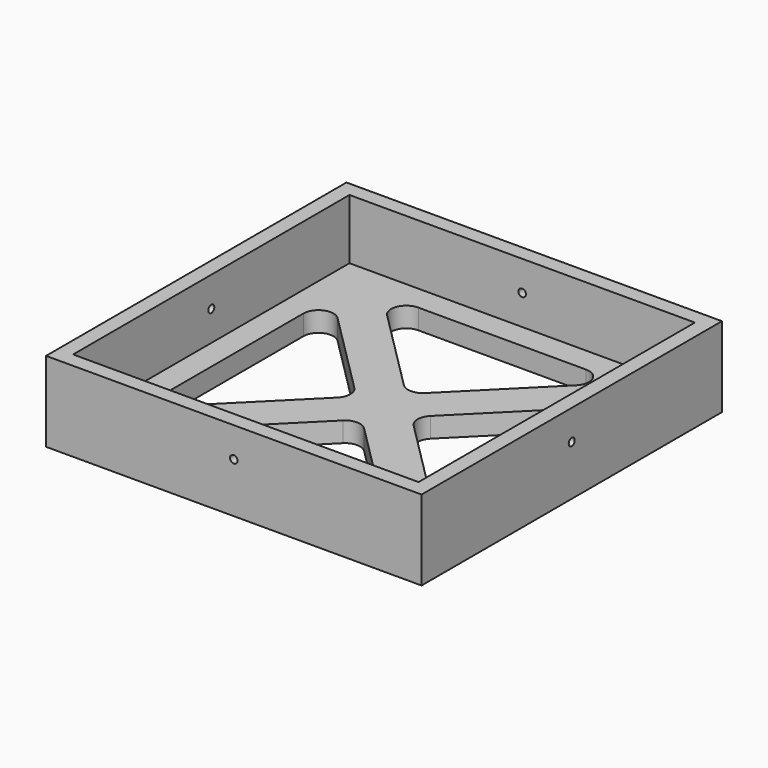
from build123d import *

# Parameters (mm, degrees)
F0_W          = 75
F0_H          = 75
F1_DEPTH      = 4
F2_W          = 75
F2_H          = 75
F2_W_2        = 69
F2_H_2        = 69
F3_DEPTH      = 12
F5_DEPTH      = 25
F6_R          = 0.75
F7_DEPTH      = 25
F7_DEPTH_BACK = 72.001
F8_R          = 0.75
F9_DEPTH      = 25
F9_DEPTH_BACK = 72.001


with BuildPart() as f1:
    # F0 (on Top) → F1 (new body)
    with BuildSketch(Plane.XY):
        with Locations((37.5, 37.5)):
            Rectangle(F0_W, F0_H)
    extrude(amount=F1_DEPTH)

    # F2 (on face) → F3 (join)
    with BuildSketch(Plane.XY.offset(4)):
        with Locations((37.5, 37.5)):
            Rectangle(F2_W, F2_H)
        with Locations((37.5, 37.5)):
            Rectangle(F2_W_2, F2_H_2, mode=Mode.SUBTRACT)
    extrude(amount=F3_DEPTH)

    # F4 (on face) → F5 (cut)
    with BuildSketch(Plane(origin=(0, 0, 0), x_dir=(1, 0, 0), z_dir=(0, 0, -1))):
        with BuildLine():
            ThreePointArc((13.1213203436, -18.6213203436), (9.8519497029, -17.9710020896), (8, -20.7426406871))
            Line((8, -20.7426406871), (8, -54.2573593129))
            ThreePointArc((8, -54.2573593129), (9.8519497029, -57.0289979104), (13.1213203436, -56.3786796564))
            Line((13.1213203436, -56.3786796564), (29.8786796564, -39.6213203436))
            ThreePointArc((29.8786796564, -39.6213203436), (30.7573593129, -37.5), (29.8786796564, -35.3786796564))
            Line((29.8786796564, -35.3786796564), (13.1213203436, -18.6213203436))
        make_face()
        with BuildLine():
            ThreePointArc((35.3786796564, -29.8786796564), (37.5, -30.7573593129), (39.6213203436, -29.8786796564))
            Line((39.6213203436, -29.8786796564), (56.3786796564, -13.1213203436))
            ThreePointArc((56.3786796564, -13.1213203436), (57.0289979104, -9.8519497029), (54.2573593129, -8))
            Line((54.2573593129, -8), (20.7426406871, -8))
            ThreePointArc((20.7426406871, -8), (17.9710020896, -9.8519497029), (18.6213203436, -13.1213203436))
            Line((18.6213203436, -13.1213203436), (35.3786796564, -29.8786796564))
        make_face()
        with BuildLine():
            Line((67, -54.2573593129), (67, -20.7426406871))
            ThreePointArc((67, -20.7426406871), (65.1480502971, -17.9710020896), (61.8786796564, -18.6213203436))
            Line((61.8786796564, -18.6213203436), (45.1213203436, -35.3786796564))
            ThreePointArc((45.1213203436, -35.3786796564), (44.2426406871, -37.5), (45.1213203436, -39.6213203436))
            Line((45.1213203436, -39.6213203436), (61.8786796564, -56.3786796564))
            ThreePointArc((61.8786796564, -56.3786796564), (65.1480502971, -57.0289979104), (67, -54.2573593129))
        make_face()
        with BuildLine():
            Line((56.3786796564, -61.8786796564), (39.6213203436, -45.1213203436))
            ThreePointArc((39.6213203436, -45.1213203436), (37.5, -44.2426406871), (35.3786796564, -45.1213203436))
            Line((35.3786796564, -45.1213203436), (18.6213203436, -61.8786796564))
            ThreePointArc((18.6213203436, -61.8786796564), (17.9710020896, -65.1480502971), (20.7426406871, -67))
            Line((20.7426406871, -67), (54.2573593129, -67))
            ThreePointArc((54.2573593129, -67), (57.0289979104, -65.1480502971), (56.3786796564, -61.8786796564))
        make_face()
    extrude(amount=-F5_DEPTH, mode=Mode.SUBTRACT)

    # F6 (on face) → F7 (cut, two sides)
    with BuildSketch(Plane.XZ.offset(-72)) as f7_sk:
        with Locations((37.5, 10)):
            Circle(F6_R)
    extrude(amount=-F7_DEPTH, mode=Mode.SUBTRACT)
    extrude(f7_sk.sketch, amount=F7_DEPTH_BACK, mode=Mode.SUBTRACT)

    # F8 (on face) → F9 (cut, two sides)
    with BuildSketch(Plane.YZ.offset(3)) as f9_sk:
        with Locations((37.5, 10)):
            Circle(F8_R)
    extrude(amount=-F9_DEPTH, mode=Mode.SUBTRACT)
    extrude(f9_sk.sketch, amount=F9_DEPTH_BACK, mode=Mode.SUBTRACT)


solid = f1.part
